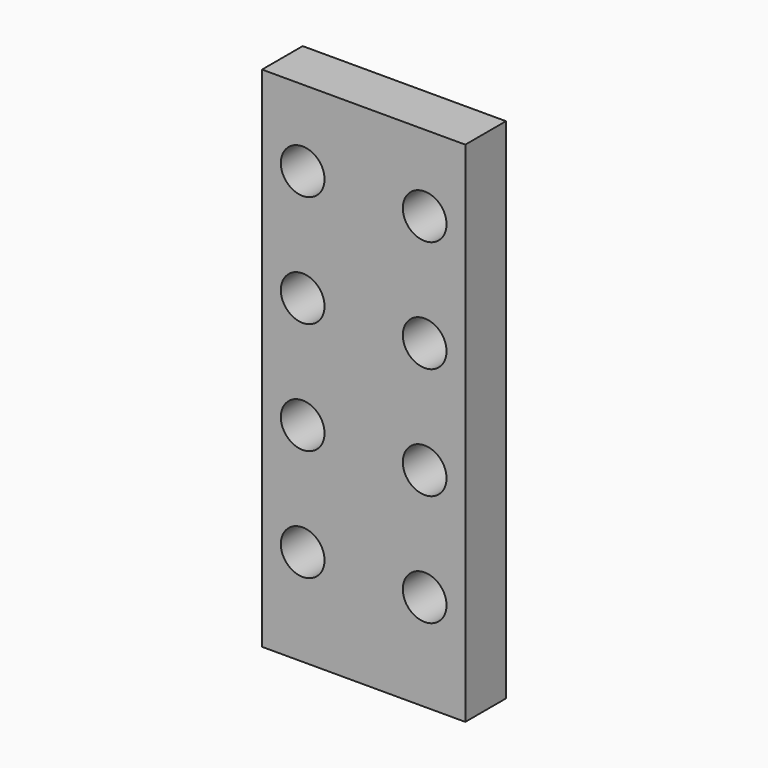
from build123d import *

# Parameters (mm, degrees)
F0_W     = 20
F0_H     = 50
F0_R     = 2.15
F1_DEPTH = 5


with BuildPart() as f1:
    # F0 (on Front) → F1 (new body)
    with BuildSketch(Plane.XZ):
        Rectangle(F0_W, F0_H)
        with Locations((-6, -15.5)):
            Circle(F0_R, mode=Mode.SUBTRACT)
        with Locations((-6, -4.5)):
            Circle(F0_R, mode=Mode.SUBTRACT)
        with Locations((6, -15.5)):
            Circle(F0_R, mode=Mode.SUBTRACT)
        with Locations((6, -4.5)):
            Circle(F0_R, mode=Mode.SUBTRACT)
        with Locations((-6, 6.5)):
            Circle(F0_R, mode=Mode.SUBTRACT)
        with Locations((-6, 17.5)):
            Circle(F0_R, mode=Mode.SUBTRACT)
        with Locations((6, 6.5)):
            Circle(F0_R, mode=Mode.SUBTRACT)
        with Locations((6, 17.5)):
            Circle(F0_R, mode=Mode.SUBTRACT)
    extrude(amount=F1_DEPTH)


solid = f1.part
